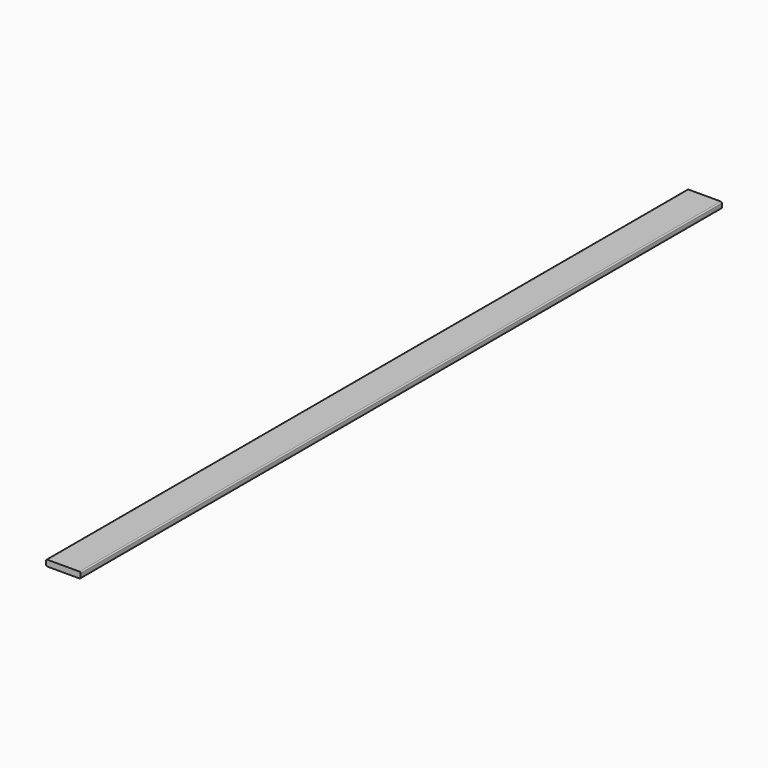
from build123d import *

# Parameters (mm, degrees)
F1_DEPTH = 1578.356


with BuildPart() as f1:
    # F0 (on Front) → F1 (new body, symmetric)
    with BuildSketch(Plane.XZ):
        with BuildLine():
            Line((63.246, 11.938), (-63.246, 11.938))
            ThreePointArc((-63.246, 11.938), (-66.658497, 10.524497), (-68.072, 7.112))
            Line((-68.072, 7.112), (-68.072, -7.112))
            ThreePointArc((-68.072, -7.112), (-66.658497, -10.524497), (-63.246, -11.938))
            Line((-63.246, -11.938), (63.246, -11.938))
            ThreePointArc((63.246, -11.938), (66.658497, -10.524497), (68.072, -7.112))
            Line((68.072, -7.112), (68.072, 7.112))
            ThreePointArc((68.072, 7.112), (66.658497, 10.524497), (63.246, 11.938))
        make_face()
    extrude(amount=F1_DEPTH, both=True)


solid = f1.part
